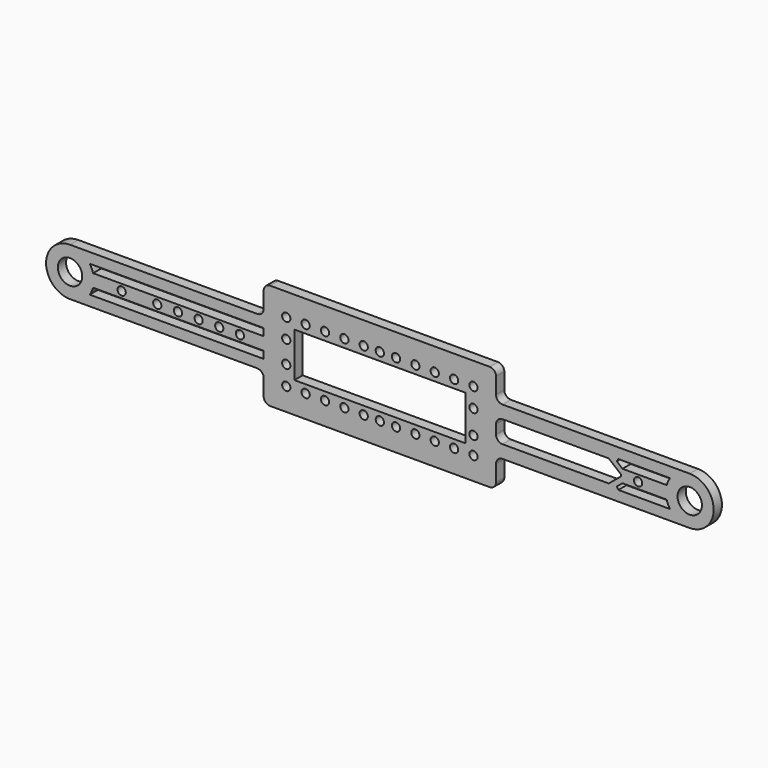
from build123d import *

# Parameters (mm, degrees)
F0_R     = 2.9972
F0_R_2   = 1.016
F0_W     = 42.0375
F0_H     = 10.9479
F1_DEPTH = 2.54
F3_D     = 2.032
F4_R     = 1.5875


with BuildPart() as f1:
    # F0 (on Front) → F1 (new body)
    with BuildSketch(Plane.XZ):
        with BuildLine():
            ThreePointArc((-76.2, 5.88645), (-82.08645, 0), (-76.2, -5.88645))
            Line((-76.2, -5.88645), (-28.575, -5.88645))
            Line((-28.575, -5.88645), (-28.575, -13.0302))
            Line((-28.575, -13.0302), (28.575, -13.0302))
            Line((28.575, -13.0302), (28.575, -5.88645))
            Line((28.575, -5.88645), (76.2, -5.88645))
            ThreePointArc((76.2, -5.88645), (82.08645, 0), (76.2, 5.88645))
            Line((76.2, 5.88645), (28.575, 5.88645))
            Line((28.575, 5.88645), (28.575, 13.0302))
            Line((28.575, 13.0302), (-28.575, 13.0302))
            Line((-28.575, 13.0302), (-28.575, 5.88645))
            Line((-28.575, 5.88645), (-76.2, 5.88645))
        make_face()
        with Locations((-76.2, 0)):
            Circle(F0_R, mode=Mode.SUBTRACT)
        with Locations((-63.5, 0)):
            Circle(F0_R_2, mode=Mode.SUBTRACT)
        with BuildLine():
            Line((-70.5263540646, -1.56845), (-34.417, -1.56845))
            Line((-34.417, -1.56845), (-28.575, -1.56845))
            Line((-28.575, -1.56845), (-28.575, -3.34645))
            Line((-28.575, -3.34645), (-71.3573183049, -3.34645))
            ThreePointArc((-71.3573183049, -3.34645), (-70.8672138888, -2.492325399), (-70.5263540646, -1.56845))
        make_face(mode=Mode.SUBTRACT)
        with BuildLine():
            ThreePointArc((-55.753, 0), (-54.737, 1.016), (-53.721, 0))
            ThreePointArc((-53.721, 0), (-54.737, -1.016), (-55.753, 0))
        make_face(mode=Mode.SUBTRACT)
        with BuildLine():
            ThreePointArc((-50.673, 0), (-49.657, 1.016), (-48.641, 0))
            ThreePointArc((-48.641, 0), (-49.657, -1.016), (-50.673, 0))
        make_face(mode=Mode.SUBTRACT)
        with BuildLine():
            ThreePointArc((-45.593, 0), (-44.577, 1.016), (-43.561, 0))
            ThreePointArc((-43.561, 0), (-44.577, -1.016), (-45.593, 0))
        make_face(mode=Mode.SUBTRACT)
        with BuildLine():
            ThreePointArc((-40.513, 0), (-39.497, 1.016), (-38.481, 0))
            ThreePointArc((-38.481, 0), (-39.497, -1.016), (-40.513, 0))
        make_face(mode=Mode.SUBTRACT)
        with BuildLine():
            ThreePointArc((-35.433, 0), (-35.1354204897, 0.7184204897), (-34.417, 1.016))
            ThreePointArc((-34.417, 1.016), (-33.6985795103, 0.7184204897), (-33.401, 0))
            ThreePointArc((-33.401, 0), (-33.6985795103, -0.7184204897), (-34.417, -1.016))
            ThreePointArc((-34.417, -1.016), (-35.1354204897, -0.7184204897), (-35.433, 0))
        make_face(mode=Mode.SUBTRACT)
        Rectangle(F0_W, F0_H, mode=Mode.SUBTRACT)
        with BuildLine():
            Line((28.575, -2.71145), (28.575, 2.71145))
            Line((28.575, 2.71145), (56.2761407595, 2.71145))
            Line((56.2761407595, 2.71145), (59.3600312801, 0.1745531584))
            ThreePointArc((59.3600312801, 0.1745531584), (59.3563530789, 0), (59.3600312801, -0.1745531584))
            Line((59.3600312801, -0.1745531584), (56.2761407595, -2.71145))
            Line((56.2761407595, -2.71145), (28.575, -2.71145))
        make_face(mode=Mode.SUBTRACT)
        with BuildLine():
            Line((58.2752193826, -2.71145), (59.6646676279, -1.56845))
            Line((59.6646676279, -1.56845), (70.5263540646, -1.56845))
            ThreePointArc((70.5263540646, -1.56845), (70.8672138888, -2.492325399), (71.3573183049, -3.34645))
            Line((71.3573183049, -3.34645), (58.6573183049, -3.34645))
            ThreePointArc((58.6573183049, -3.34645), (58.4562657085, -3.0349691924), (58.2752193826, -2.71145))
        make_face(mode=Mode.SUBTRACT)
        with Locations((63.5, 0)):
            Circle(F0_R_2, mode=Mode.SUBTRACT)
        with Locations((76.2, 0)):
            Circle(F0_R, mode=Mode.SUBTRACT)
        with BuildLine():
            Line((-28.575, 1.56845), (-34.417, 1.56845))
            Line((-34.417, 1.56845), (-70.5263540646, 1.56845))
            ThreePointArc((-70.5263540646, 1.56845), (-70.8672138888, 2.492325399), (-71.3573183049, 3.34645))
            Line((-71.3573183049, 3.34645), (-28.575, 3.34645))
            Line((-28.575, 3.34645), (-28.575, 1.56845))
        make_face(mode=Mode.SUBTRACT)
        with BuildLine():
            ThreePointArc((58.2752193826, 2.71145), (58.4562657085, 3.0349691924), (58.6573183049, 3.34645))
            Line((58.6573183049, 3.34645), (71.3573183049, 3.34645))
            ThreePointArc((71.3573183049, 3.34645), (70.8672138888, 2.492325399), (70.5263540646, 1.56845))
            Line((70.5263540646, 1.56845), (59.6646676279, 1.56845))
            Line((59.6646676279, 1.56845), (58.2752193826, 2.71145))
        make_face(mode=Mode.SUBTRACT)
    extrude(amount=-F1_DEPTH)

    # F3 (through all)
    with Locations(Plane.XZ):
        with Locations((-23.01875, 7.47395), (-18.25625, 7.47395), (-13.49375, 7.47395), (-8.73125, 7.47395), (-3.96875, 7.47395), (-0.00635, 7.47395), (3.96875, 7.47395), (8.73125, 7.47395), (13.49375, 7.47395), (18.25625, 7.47395), (23.0101440102, 7.47395), (23.01875, -3.1105038886), (23.01875, -7.47395), (23.01875, 2.71145), (18.25625, -7.47395), (13.49375, -7.47395), (8.73125, -7.47395), (3.96875, -7.47395), (-0.00635, -7.47395), (-3.96875, -7.47395), (-8.73125, -7.47395), (-13.49375, -7.47395), (-18.25625, -7.47395), (-23.01875, -7.47395), (-23.01875, -2.71145), (-23.01875, 2.71145)):
            Hole(F3_D / 2)

    # F4
    f4_edges = [f1.edges().sort_by_distance(p)[0] for p in [
        (-34.417, 1.27, 1.016),
        (-28.575, 1.27, 13.0302),
        (-28.575, 1.27, 5.88645),
        (-28.575, 1.27, -13.0302),
        (-28.575, 1.27, -5.88645),
        (28.575, 1.27, 2.71145),
        (28.575, 1.27, 13.0302),
        (28.575, 1.27, -5.88645),
        (28.575, 1.27, -13.0302),
        (28.575, 1.27, 5.88645),
        (28.575, 1.27, -2.71145),
    ]]
    fillet(f4_edges, radius=F4_R)


solid = f1.part
